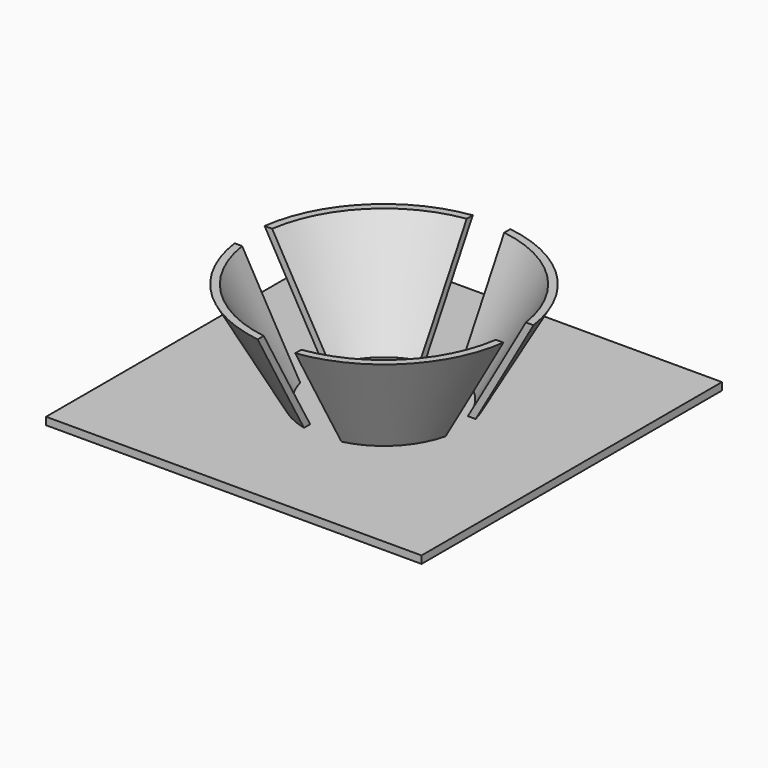
from build123d import *

# Parameters (mm, degrees)
F4_DEPTH      = 30
F4_DEPTH_BACK = -2
F5_W          = 100
F5_H          = 100
F6_DEPTH      = 2


with BuildPart() as f2:
    # F0 (on Front) → F2 (revolve)
    with BuildSketch(Plane.XZ):
        Polygon((0, 2), (0, 0), (19.877748, 0), (36.150404, 29), (34.150404, 29), (19, 2), align=None)
    revolve(axis=Axis((0, 0, 10.899935), (0, 0, 1)))

    # F3 (on Top) → F4 (cut, two sides)
    with BuildSketch(Plane.XY) as f4_sk:
        Polygon((-72.002242, 5), (-72.002242, 0), (-72.002242, -5), (-5, -5), (-5, -72.002242), (0, -72.002242), (5, -72.002242), (5, -5), (72.002242, -5), (72.002242, 0), (72.002242, 5), (5, 5), (5, 72.002242), (0, 72.002242), (-5, 72.002242), (-5, 5), align=None)
    extrude(amount=F4_DEPTH, mode=Mode.SUBTRACT)
    extrude(f4_sk.sketch, amount=-F4_DEPTH_BACK, mode=Mode.SUBTRACT)

    # F5 (on Top) → F6 (join)
    with BuildSketch(Plane.XY):
        Rectangle(F5_W, F5_H)
    extrude(amount=F6_DEPTH)


solid = f2.part
